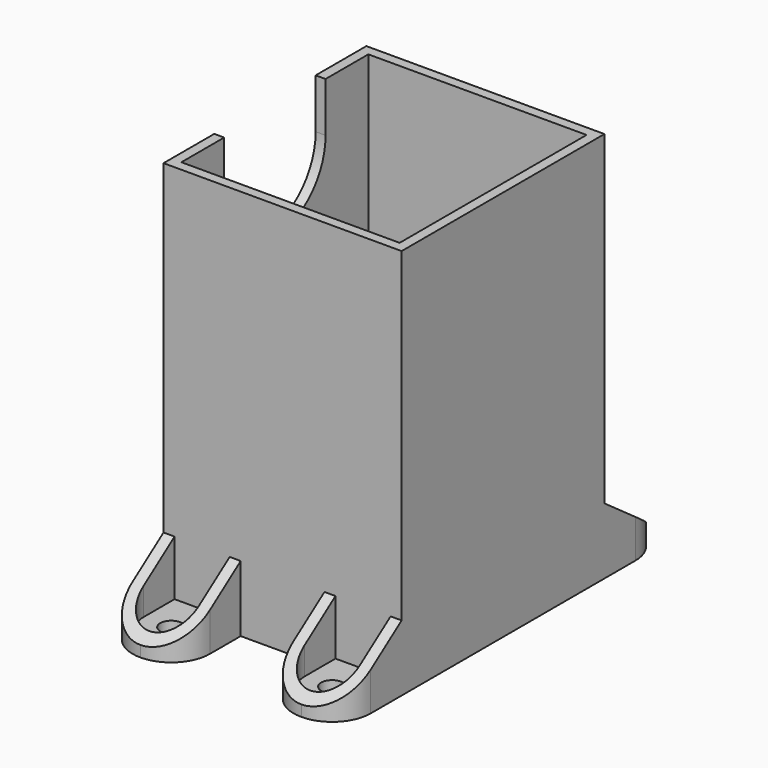
from build123d import *

# Parameters (mm, degrees)
SKETCH_W        = 43.2
SKETCH_H        = 46
SKETCH_W_2      = 31.5
SKETCH_H_2      = 34
PAD_DEPTH       = 41
SKETCH001_W     = 43.2
SKETCH001_H     = 46
SKETCH001_W_2   = 39.6
SKETCH001_H_2   = 42.4
PAD001_DEPTH    = 30
POCKET_DEPTH    = 5
SKETCH003_W     = 14
SKETCH003_H     = 12
PAD002_DEPTH    = 14
FILLET_R        = 6.99
POCKET001_DEPTH = 10
POCKET002_DEPTH = 43.201
SKETCH006_R     = 2
POCKET003_DEPTH = 2.001
SKETCH007_W     = 14
SKETCH007_H     = 12
PAD003_DEPTH    = 14
FILLET001_R     = 6.99
POCKET004_DEPTH = 10
POCKET005_DEPTH = 43.201
SKETCH010_R     = 2
POCKET006_DEPTH = 2.001


with BuildPart() as part:
    # Sketch → Pad (new body)
    with BuildSketch(Plane.XY):
        Rectangle(SKETCH_W, SKETCH_H)
        Rectangle(SKETCH_W_2, SKETCH_H_2, mode=Mode.SUBTRACT)
    extrude(amount=PAD_DEPTH)

    # Sketch001 → Pad001 (new body)
    with BuildSketch(Plane.XY.offset(41)):
        Rectangle(SKETCH001_W, SKETCH001_H)
        Rectangle(SKETCH001_W_2, SKETCH001_H_2, mode=Mode.SUBTRACT)
    extrude(amount=PAD001_DEPTH)

    # Sketch002 → Pocket (cut)
    with BuildSketch(Plane(origin=(-21.6, 0, 0), x_dir=(0, -1, 0), z_dir=(-1, 0, 0))):
        with BuildLine():
            Line((-11.5, 71), (11.5, 71))
            Line((11.5, 71), (11.5, 62.000009))
            ThreePointArc((-11.5, 61.999999), (5e-06, 50.5), (11.5, 62.000009))
            Line((-11.5, 61.999999), (-11.5, 71))
        make_face()
    extrude(amount=-POCKET_DEPTH, mode=Mode.SUBTRACT)

    # Sketch003 → Pad002 (new body)
    with BuildSketch(Plane.XZ.offset(23)):
        with Locations((-14.6, 6)):
            Rectangle(SKETCH003_W, SKETCH003_H)
        with Locations((14.6, 6)):
            Rectangle(SKETCH003_W, SKETCH003_H)
    extrude(amount=PAD002_DEPTH)

    # Fillet
    fillet_edges = [part.edges().sort_by_distance(p)[0] for p in [
        (-21.6, -37, 6),
        (-7.6, -37, 6),
        (7.6, -37, 6),
        (21.6, -37, 6),
    ]]
    fillet(fillet_edges, radius=FILLET_R)

    # Sketch004 → Pocket001 (cut)
    with BuildSketch(Plane.XY.offset(12)):
        with BuildLine():
            Line((-19.6, -23), (-9.6, -23))
            Line((-9.6, -23), (-9.6, -30.009996))
            ThreePointArc((-19.6, -30.009995), (-14.6, -35.009995), (-9.6, -30.009996))
            Line((-19.6, -30.009995), (-19.6, -23))
        make_face()
        with BuildLine():
            Line((9.6, -23), (19.6, -23))
            Line((19.6, -23), (19.6, -30.009994))
            ThreePointArc((9.6, -30.009994), (14.6, -35.009995), (19.6, -30.009994))
            Line((9.6, -30.009994), (9.6, -23))
        make_face()
    extrude(amount=-POCKET001_DEPTH, mode=Mode.SUBTRACT)

    # Sketch005 → Pocket002 (cut, through all)
    with BuildSketch(Plane(origin=(-21.6, 0, 0), x_dir=(0, -1, 0), z_dir=(-1, 0, 0))):
        Polygon((23, 12), (37, 2), (37, 12), align=None)
    extrude(amount=-POCKET002_DEPTH, mode=Mode.SUBTRACT)

    # Sketch006 → Pocket003 (cut, through all)
    with BuildSketch(Plane.XY.offset(2)):
        with Locations((-14.6, -30.009995)):
            Circle(SKETCH006_R)
        with Locations((14.6, -30.009995)):
            Circle(SKETCH006_R)
    extrude(amount=-POCKET003_DEPTH, mode=Mode.SUBTRACT)

    # Sketch007 → Pad003 (new body)
    with BuildSketch(Plane(origin=(0, 23, 0), x_dir=(-1, 0, 0), z_dir=(0, 1, 0))):
        with Locations((-14.6, 6)):
            Rectangle(SKETCH007_W, SKETCH007_H)
        with Locations((14.6, 6)):
            Rectangle(SKETCH007_W, SKETCH007_H)
    extrude(amount=PAD003_DEPTH)

    # Fillet001
    fillet001_edges = [part.edges().sort_by_distance(p)[0] for p in [
        (21.6, 37, 6),
        (7.6, 37, 6),
        (-7.6, 37, 6),
        (-21.6, 37, 6),
    ]]
    fillet(fillet001_edges, radius=FILLET001_R)

    # Sketch008 → Pocket004 (cut)
    with BuildSketch(Plane.XY.offset(12)):
        with BuildLine():
            Line((-19.6, 23), (-9.6, 23))
            Line((-9.6, 23), (-9.6, 30.009983))
            ThreePointArc((-9.6, 30.009983), (-14.6, 35.009995), (-19.6, 30.009983))
            Line((-19.6, 30.009983), (-19.6, 23))
        make_face()
        with BuildLine():
            Line((19.6, 30.009983), (19.6, 23))
            Line((19.6, 23), (9.6, 23))
            Line((9.6, 23), (9.6, 30.009983))
            ThreePointArc((19.6, 30.009983), (14.6, 35.009995), (9.6, 30.009983))
        make_face()
    extrude(amount=-POCKET004_DEPTH, mode=Mode.SUBTRACT)

    # Sketch009 → Pocket005 (cut, through all)
    with BuildSketch(Plane(origin=(-21.6, 0, 0), x_dir=(0, -1, 0), z_dir=(-1, 0, 0))):
        Polygon((-23, 12), (-37, 2), (-37, 12), align=None)
    extrude(amount=-POCKET005_DEPTH, mode=Mode.SUBTRACT)

    # Sketch010 → Pocket006 (cut, through all)
    with BuildSketch(Plane.XY.offset(2)):
        with Locations((-14.6, 30.009995)):
            Circle(SKETCH010_R)
        with Locations((14.6, 30.009995)):
            Circle(SKETCH010_R)
    extrude(amount=-POCKET006_DEPTH, mode=Mode.SUBTRACT)


solid = part.part
